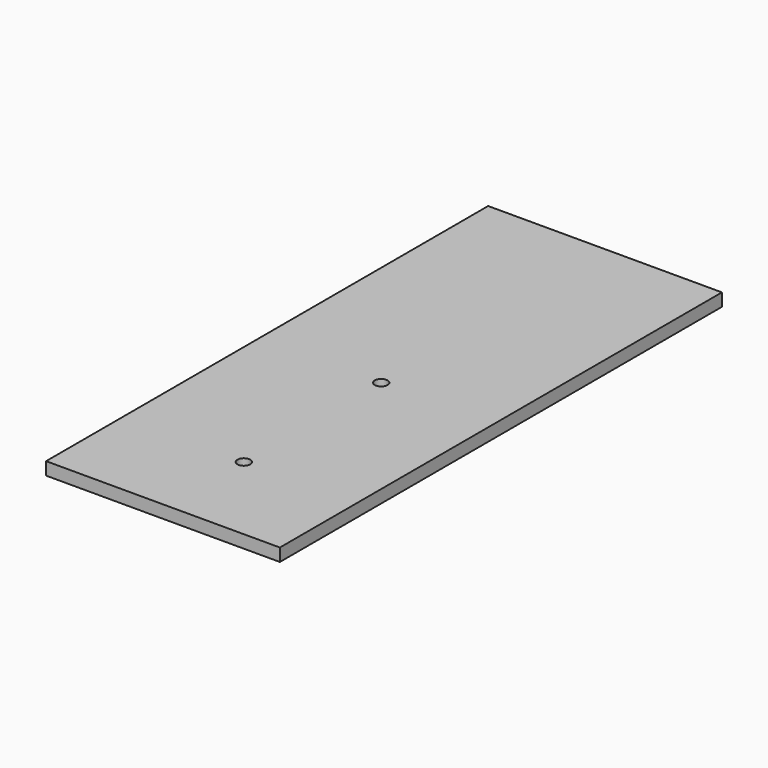
from build123d import *

# Parameters (mm, degrees)
F0_W     = 55
F0_H     = 130
F1_DEPTH = 3
F4_D     = 3


with BuildPart() as f1:
    # F0 (on Top) → F1 (new body)
    with BuildSketch(Plane.XY):
        with Locations((27.5, 65)):
            Rectangle(F0_W, F0_H)
    extrude(amount=F1_DEPTH)

    # F4 (through all)
    with Locations(Plane.XY.offset(3)):
        with Locations((28.578479, 22.430725), (28.578479, 62.825061)):
            Hole(F4_D / 2)


solid = f1.part
